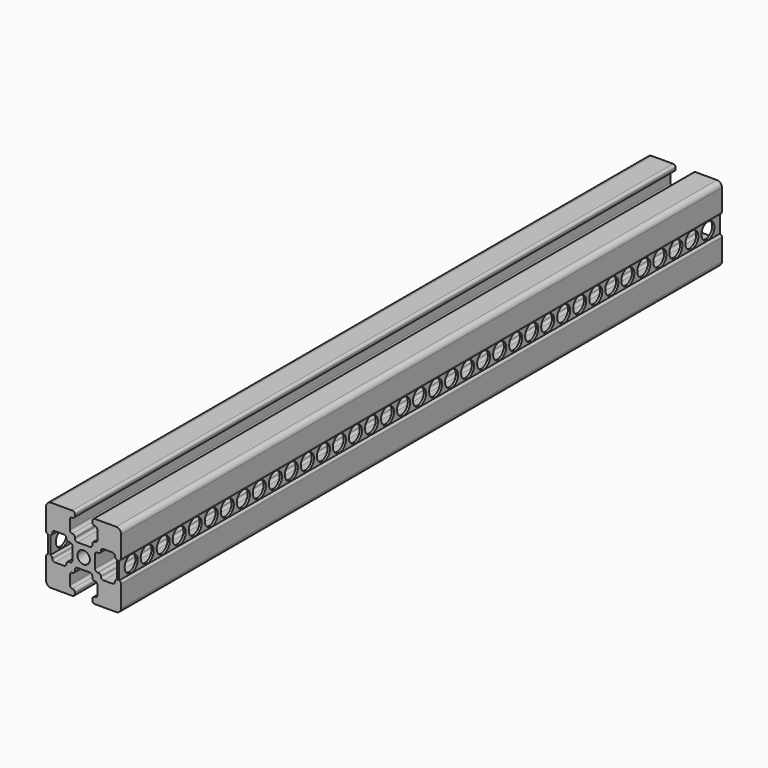
from build123d import *

# Parameters (mm, degrees)
F1_DEPTH  = 150
F3_DEPTH  = 150.001
F5_DEPTH  = 150.001
F6_R      = 1.25
F7_DEPTH  = 150.001
F8_R      = 0.5
F9_W      = 0.45
F9_H      = 3.5
F10_DEPTH = 150
F11_R     = 1.625
F12_DEPTH = 1


with BuildPart() as f1:
    # F0 (on Front) → F1 (new body)
    with BuildSketch(Plane.XZ):
        with BuildLine():
            Line((6.5, 7.5), (-6.5, 7.5))
            ThreePointArc((-6.5, 7.5), (-7.2071067812, 7.2071067812), (-7.5, 6.5))
            Line((-7.5, 6.5), (-7.5, -6.5))
            ThreePointArc((-7.5, -6.5), (-7.2071067812, -7.2071067812), (-6.5, -7.5))
            Line((-6.5, -7.5), (6.5, -7.5))
            ThreePointArc((6.5, -7.5), (7.2071067812, -7.2071067812), (7.5, -6.5))
            Line((7.5, -6.5), (7.5, 6.5))
            ThreePointArc((7.5, 6.5), (7.2071067812, 7.2071067812), (6.5, 7.5))
        make_face()
    extrude(amount=F1_DEPTH)

    # F2 (on face) → F3 (cut, through all)
    with BuildSketch(Plane.XZ.offset(150)):
        with BuildLine():
            Line((1.25, -2.25), (-1.25, -2.25))
            ThreePointArc((-1.25, -2.25), (-1.6035533906, -2.3964466094), (-1.75, -2.75))
            Line((-1.75, -2.75), (-1.75, -2.95))
            ThreePointArc((-1.75, -2.95), (-1.8964466094, -3.3035533906), (-2.25, -3.45))
            ThreePointArc((-2.25, -3.45), (-2.6035533906, -3.5964466094), (-2.75, -3.95))
            Line((-2.75, -3.95), (-2.75, -5.75))
            ThreePointArc((-2.75, -5.75), (-2.6035533906, -6.1035533906), (-2.25, -6.25))
            ThreePointArc((-2.25, -6.25), (-1.8964466094, -6.3964466094), (-1.75, -6.75))
            Line((-1.75, -6.75), (-1.75, -7.5))
            Line((-1.75, -7.5), (1.75, -7.5))
            Line((1.75, -7.5), (1.75, -6.75))
            ThreePointArc((1.75, -6.75), (1.8964466094, -6.3964466094), (2.25, -6.25))
            ThreePointArc((2.25, -6.25), (2.6035533906, -6.1035533906), (2.75, -5.75))
            Line((2.75, -5.75), (2.75, -3.95))
            ThreePointArc((2.75, -3.95), (2.6035533906, -3.5964466094), (2.25, -3.45))
            ThreePointArc((2.25, -3.45), (1.8964466094, -3.3035533906), (1.75, -2.95))
            Line((1.75, -2.95), (1.75, -2.75))
            ThreePointArc((1.75, -2.75), (1.6035533906, -2.3964466094), (1.25, -2.25))
        make_face()
        with BuildLine():
            ThreePointArc((-1.75, 2.75), (-1.6035533906, 2.3964466094), (-1.25, 2.25))
            Line((-1.25, 2.25), (1.25, 2.25))
            ThreePointArc((1.25, 2.25), (1.6035533906, 2.3964466094), (1.75, 2.75))
            Line((1.75, 2.75), (1.75, 2.95))
            ThreePointArc((1.75, 2.95), (1.8964466094, 3.3035533906), (2.25, 3.45))
            ThreePointArc((2.25, 3.45), (2.6035533906, 3.5964466094), (2.75, 3.95))
            Line((2.75, 3.95), (2.75, 5.75))
            ThreePointArc((2.75, 5.75), (2.6035533906, 6.1035533906), (2.25, 6.25))
            ThreePointArc((2.25, 6.25), (1.8964466094, 6.3964466094), (1.75, 6.75))
            Line((1.75, 6.75), (1.75, 7.5))
            Line((1.75, 7.5), (-1.75, 7.5))
            Line((-1.75, 7.5), (-1.75, 6.75))
            ThreePointArc((-1.75, 6.75), (-1.8964466094, 6.3964466094), (-2.25, 6.25))
            ThreePointArc((-2.25, 6.25), (-2.6035533906, 6.1035533906), (-2.75, 5.75))
            Line((-2.75, 5.75), (-2.75, 3.95))
            ThreePointArc((-2.75, 3.95), (-2.6035533906, 3.5964466094), (-2.25, 3.45))
            ThreePointArc((-2.25, 3.45), (-1.8964466094, 3.3035533906), (-1.75, 2.95))
            Line((-1.75, 2.95), (-1.75, 2.75))
        make_face()
    extrude(amount=-F3_DEPTH, mode=Mode.SUBTRACT)

    # F4 (on face) → F5 (cut, through all)
    with BuildSketch(Plane.XZ.offset(150)):
        with BuildLine():
            Line((7.5, -1.75), (7.5, 1.75))
            Line((7.5, 1.75), (6.75, 1.75))
            ThreePointArc((6.75, 1.75), (6.3964466094, 1.8964466094), (6.25, 2.25))
            ThreePointArc((6.25, 2.25), (6.1035533906, 2.6035533906), (5.75, 2.75))
            Line((5.75, 2.75), (3.95, 2.75))
            ThreePointArc((3.95, 2.75), (3.5964466094, 2.6035533906), (3.45, 2.25))
            ThreePointArc((3.45, 2.25), (3.3035533906, 1.8964466094), (2.95, 1.75))
            Line((2.95, 1.75), (2.75, 1.75))
            ThreePointArc((2.75, 1.75), (2.3964466094, 1.6035533906), (2.25, 1.25))
            Line((2.25, 1.25), (2.25, -1.25))
            ThreePointArc((2.25, -1.25), (2.3964466094, -1.6035533906), (2.75, -1.75))
            Line((2.75, -1.75), (2.95, -1.75))
            ThreePointArc((2.95, -1.75), (3.3035533906, -1.8964466094), (3.45, -2.25))
            ThreePointArc((3.45, -2.25), (3.5964466094, -2.6035533906), (3.95, -2.75))
            Line((3.95, -2.75), (5.75, -2.75))
            ThreePointArc((5.75, -2.75), (6.1035533906, -2.6035533906), (6.25, -2.25))
            ThreePointArc((6.25, -2.25), (6.3964466094, -1.8964466094), (6.75, -1.75))
            Line((6.75, -1.75), (7.5, -1.75))
        make_face()
        with BuildLine():
            Line((-2.25, -1.25), (-2.25, 1.25))
            ThreePointArc((-2.25, 1.25), (-2.3964466094, 1.6035533906), (-2.75, 1.75))
            Line((-2.75, 1.75), (-2.95, 1.75))
            ThreePointArc((-2.95, 1.75), (-3.3035533906, 1.8964466094), (-3.45, 2.25))
            ThreePointArc((-3.45, 2.25), (-3.5964466094, 2.6035533906), (-3.95, 2.75))
            Line((-3.95, 2.75), (-5.75, 2.75))
            ThreePointArc((-5.75, 2.75), (-6.1035533906, 2.6035533906), (-6.25, 2.25))
            ThreePointArc((-6.25, 2.25), (-6.3964466094, 1.8964466094), (-6.75, 1.75))
            Line((-6.75, 1.75), (-7.5, 1.75))
            Line((-7.5, 1.75), (-7.5, -1.75))
            Line((-7.5, -1.75), (-6.75, -1.75))
            ThreePointArc((-6.75, -1.75), (-6.3964466094, -1.8964466094), (-6.25, -2.25))
            ThreePointArc((-6.25, -2.25), (-6.1035533906, -2.6035533906), (-5.75, -2.75))
            Line((-5.75, -2.75), (-3.95, -2.75))
            ThreePointArc((-3.95, -2.75), (-3.5964466094, -2.6035533906), (-3.45, -2.25))
            ThreePointArc((-3.45, -2.25), (-3.3035533906, -1.8964466094), (-2.95, -1.75))
            Line((-2.95, -1.75), (-2.75, -1.75))
            ThreePointArc((-2.75, -1.75), (-2.3964466094, -1.6035533906), (-2.25, -1.25))
        make_face()
    extrude(amount=-F5_DEPTH, mode=Mode.SUBTRACT)

    # F6 (on face) → F7 (cut, through all)
    with BuildSketch(Plane.XZ.offset(150)):
        Circle(F6_R)
    extrude(amount=-F7_DEPTH, mode=Mode.SUBTRACT)

    # F8
    f8_edges = [f1.edges().sort_by_distance(p)[0] for p in [
        (-1.75, -75, -7.5),
        (7.5, -75, 1.75),
        (-7.5, -75, 1.75),
        (1.75, -75, 7.5),
        (1.75, -75, -7.5),
        (-7.5, -75, -1.75),
        (7.5, -75, -1.75),
        (-1.75, -75, 7.5),
    ]]
    fillet(f8_edges, radius=F8_R)


with BuildPart() as f10:
    # F9 (on face) → F10 (new body, through all)
    with BuildSketch(Plane.XZ.offset(150)):
        with Locations((6.875, 0)):
            Rectangle(F9_W, F9_H)
    extrude(amount=-F10_DEPTH)

    # F11 (on face) → F12 (cut)
    with BuildSketch(Plane.YZ.offset(7.1)):
        with Locations((-3, 0)):
            Circle(F11_R)
        with Locations((-7, 0)):
            Circle(F11_R)
        with Locations((-11, 0)):
            Circle(F11_R)
        with Locations((-15, 0)):
            Circle(F11_R)
        with Locations((-19, 0)):
            Circle(F11_R)
        with Locations((-23, 0)):
            Circle(F11_R)
        with Locations((-27, 0)):
            Circle(F11_R)
        with Locations((-31, 0)):
            Circle(F11_R)
        with Locations((-35, 0)):
            Circle(F11_R)
        with Locations((-39, 0)):
            Circle(F11_R)
        with Locations((-43, 0)):
            Circle(F11_R)
        with Locations((-47, 0)):
            Circle(F11_R)
        with Locations((-51, 0)):
            Circle(F11_R)
        with Locations((-55, 0)):
            Circle(F11_R)
        with Locations((-59, 0)):
            Circle(F11_R)
        with Locations((-63, 0)):
            Circle(F11_R)
        with Locations((-67, 0)):
            Circle(F11_R)
        with Locations((-71, 0)):
            Circle(F11_R)
        with Locations((-75, 0)):
            Circle(F11_R)
        with Locations((-79, 0)):
            Circle(F11_R)
        with Locations((-83, 0)):
            Circle(F11_R)
        with Locations((-87, 0)):
            Circle(F11_R)
        with Locations((-91, 0)):
            Circle(F11_R)
        with Locations((-95, 0)):
            Circle(F11_R)
        with Locations((-99, 0)):
            Circle(F11_R)
        with Locations((-103, 0)):
            Circle(F11_R)
        with Locations((-107, 0)):
            Circle(F11_R)
        with Locations((-111, 0)):
            Circle(F11_R)
        with Locations((-115, 0)):
            Circle(F11_R)
        with Locations((-119, 0)):
            Circle(F11_R)
        with Locations((-123, 0)):
            Circle(F11_R)
        with Locations((-127, 0)):
            Circle(F11_R)
        with Locations((-131, 0)):
            Circle(F11_R)
        with Locations((-135, 0)):
            Circle(F11_R)
        with Locations((-139, 0)):
            Circle(F11_R)
        with Locations((-143, 0)):
            Circle(F11_R)
        with Locations((-147, 0)):
            Circle(F11_R)
    extrude(amount=-F12_DEPTH, mode=Mode.SUBTRACT)


with BuildPart() as f13_1:
    # F13: instance of F10
    add(f10.part.mirror(Plane.YZ))


solid = Compound([f1.part, f10.part, f13_1.part])
